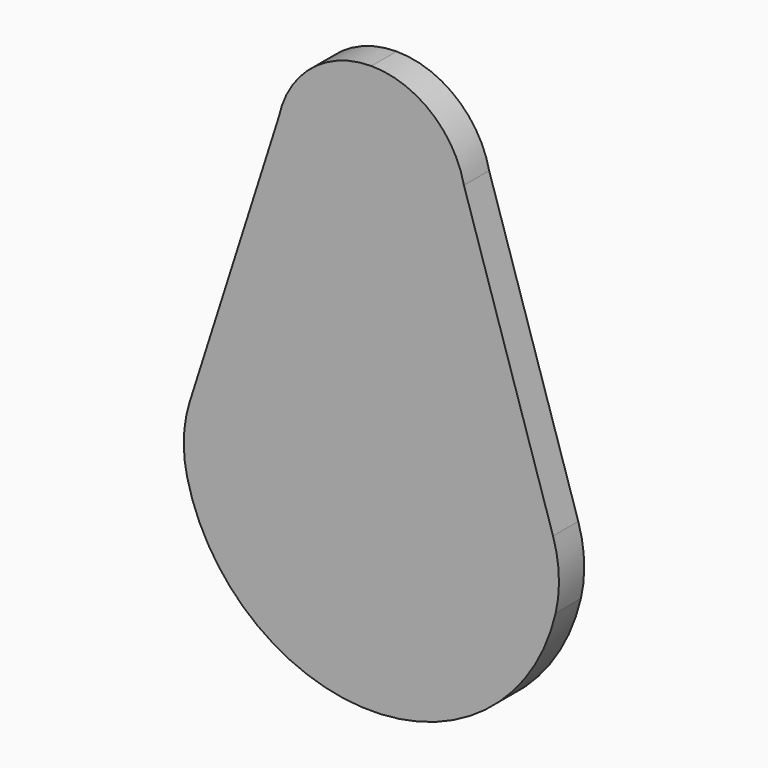
from build123d import *

# Parameters (mm, degrees)
F1_DEPTH = 10


with BuildPart() as f1:
    # F0 (on Front) → F1 (new body)
    with BuildSketch(Plane.XZ):
        with BuildLine():
            ThreePointArc((-57.586286, 7.57811), (-59.44227, -2.996741), (-58.418656, -13.684322))
            ThreePointArc((-58.418656, -13.684322), (0, -60), (58.418656, -13.684322))
            ThreePointArc((58.418656, -13.684322), (59.44227, -2.996741), (57.586286, 7.57811))
            Line((57.586286, 7.57811), (29.338606, 96.264676))
            ThreePointArc((29.338606, 96.264676), (18.868753, 113.323168), (0, 120))
            ThreePointArc((0, 120), (-18.868753, 113.323168), (-29.338606, 96.264676))
            Line((-29.338606, 96.264676), (-57.586286, 7.57811))
        make_face()
    extrude(amount=F1_DEPTH)


solid = f1.part
